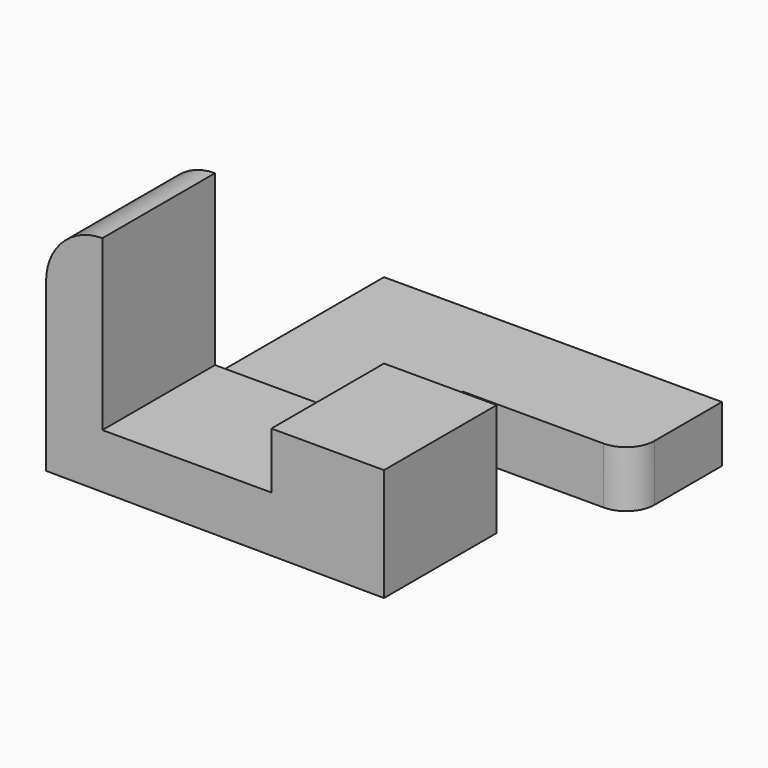
from build123d import *

# Parameters (mm, degrees)
F1_DEPTH = 10
F3_DEPTH = 25
F4_DEPTH = 25


with BuildPart() as f1:
    # F0 (on Top) → F1 (new body)
    with BuildSketch(Plane.XY):
        with BuildLine():
            Line((0, 50), (0, 0))
            Line((0, 0), (25, 0))
            ThreePointArc((25, 0), (28.535534, 1.464466), (30, 5))
            Line((30, 5), (30, 30))
            Line((30, 30), (55, 30))
            ThreePointArc((55, 30), (58.535534, 31.464466), (60, 35))
            Line((60, 35), (60, 50))
            Line((60, 50), (0, 50))
        make_face()
    extrude(amount=F1_DEPTH)


with BuildPart() as f3:
    # F2 (on Front) → F3 (new body)
    with BuildSketch(Plane.XZ):
        with BuildLine():
            Line((0, 10.204769), (60, 9.831907))
            Line((60, 9.831907), (60, 29.831907))
            Line((60, 29.831907), (40, 29.831907))
            Line((40, 29.831907), (40, 19.831907))
            Line((40, 19.831907), (10, 19.831907))
            Line((10, 19.831907), (10, 49.831907))
            ThreePointArc((10, 49.831907), (2.928932, 46.902975), (0, 39.831907))
            Line((0, 39.831907), (0, 10.204769))
        make_face()
    extrude(amount=F3_DEPTH)

    # F2 (on Front) → F4 (join)
    with BuildSketch(Plane.XZ):
        with BuildLine():
            Line((0, 10.204769), (60, 9.831907))
            Line((60, 9.831907), (60, 29.831907))
            Line((60, 29.831907), (40, 29.831907))
            Line((40, 29.831907), (40, 19.831907))
            Line((40, 19.831907), (10, 19.831907))
            Line((10, 19.831907), (10, 49.831907))
            ThreePointArc((10, 49.831907), (2.928932, 46.902975), (0, 39.831907))
            Line((0, 39.831907), (0, 10.204769))
        make_face()
    extrude(amount=F4_DEPTH)


solid = Compound([f1.part, f3.part])
